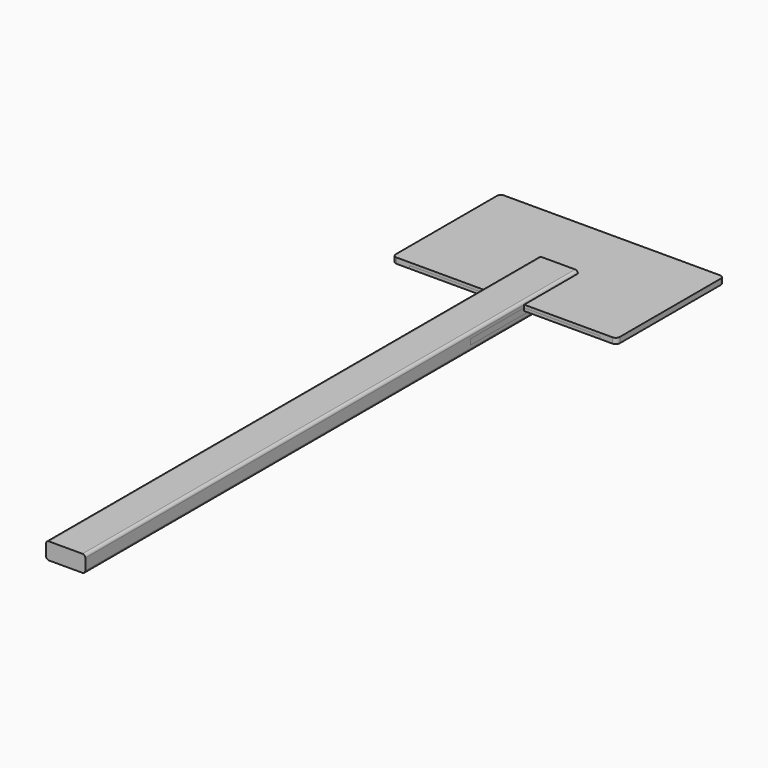
from build123d import *

# Parameters (mm, degrees)
F2_DEPTH = 1397
F0_W     = 88.9
F0_H     = 12.7
F3_DEPTH = 304.8
F4_W     = 508
F4_H     = 304.8
F5_DEPTH = 12.7
F6_W     = 431.8
F6_H     = 304.8
F7_DEPTH = 6.35
F8_R     = 9.198154


with BuildPart() as f2:
    # F1 (on Front) → F2 (new body)
    with BuildSketch(Plane.XZ):
        with BuildLine():
            Line((-38.1, -19.05), (38.1, -19.05))
            ThreePointArc((38.1, -19.05), (42.590128, -17.190128), (44.45, -12.7))
            Line((44.45, -12.7), (44.45, 12.7))
            ThreePointArc((44.45, 12.7), (42.590128, 17.190128), (38.1, 19.05))
            Line((38.1, 19.05), (-38.1, 19.05))
            ThreePointArc((-38.1, 19.05), (-42.590128, 17.190128), (-44.45, 12.7))
            Line((-44.45, 12.7), (-44.45, -12.7))
            ThreePointArc((-44.45, -12.7), (-42.590128, -17.190128), (-38.1, -19.05))
        make_face()
    extrude(amount=F2_DEPTH)


with BuildPart() as f3:
    # F0 (on Front) → F3 (new body)
    with BuildSketch(Plane.XZ):
        Rectangle(F0_W, F0_H)
    extrude(amount=F3_DEPTH)


with BuildPart() as f5:
    # F4 (on Top) → F5 (new body)
    with BuildSketch(Plane.XY):
        Rectangle(F4_W, F4_H)
    extrude(amount=F5_DEPTH)

    # F8
    f8_edges = [f5.edges().sort_by_distance(p)[0] for p in [
        (254, -152.4, 6.35),
        (254, 152.4, 6.35),
        (-254, -152.4, 6.35),
        (-254, 152.4, 6.35),
    ]]
    fillet(f8_edges, radius=F8_R)


with BuildPart() as f7:
    # F6 (on Top) → F7 (new body)
    with BuildSketch(Plane.XY):
        Rectangle(F6_W, F6_H)
    extrude(amount=F7_DEPTH)


solid = Compound([f2.part, f3.part, f5.part, f7.part])
